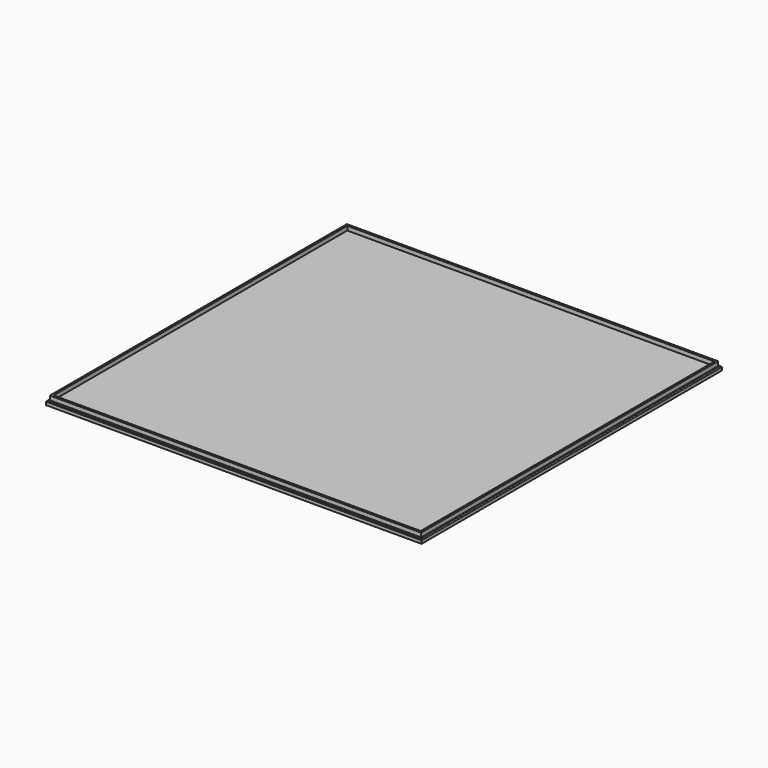
from build123d import *

# Parameters (mm, degrees)
SKETCH009_W     = 180
SKETCH009_H     = 180
PAD004_DEPTH    = 2
SKETCH010_W     = 178
SKETCH010_H     = 178
PAD005_DEPTH    = 2
SKETCH011_W     = 176
SKETCH011_H     = 176
POCKET003_DEPTH = 2
CHAMFER004_SIZE = 0.5


with BuildPart() as part:
    # Sketch009 → Pad004 (new body)
    with BuildSketch(Plane.XY):
        Rectangle(SKETCH009_W, SKETCH009_H)
    extrude(amount=PAD004_DEPTH)

    # Sketch010 (on DatumPlane) → Pad005 (join)
    with BuildSketch(Plane.XY.offset(2)):
        Rectangle(SKETCH010_W, SKETCH010_H)
    extrude(amount=PAD005_DEPTH)

    # Sketch011 (on DatumPlane) → Pocket003 (cut)
    with BuildSketch(Plane.XY.offset(4)):
        Rectangle(SKETCH011_W, SKETCH011_H)
    extrude(amount=-POCKET003_DEPTH, mode=Mode.SUBTRACT)

    # Chamfer004
    chamfer004_edges = [part.edges().sort_by_distance(p)[0] for p in [
        (0, -90, 2),
        (0, 90, 2),
        (90, 0, 2),
        (-90, 0, 2),
    ]]
    chamfer(chamfer004_edges, length=CHAMFER004_SIZE)


solid = part.part
